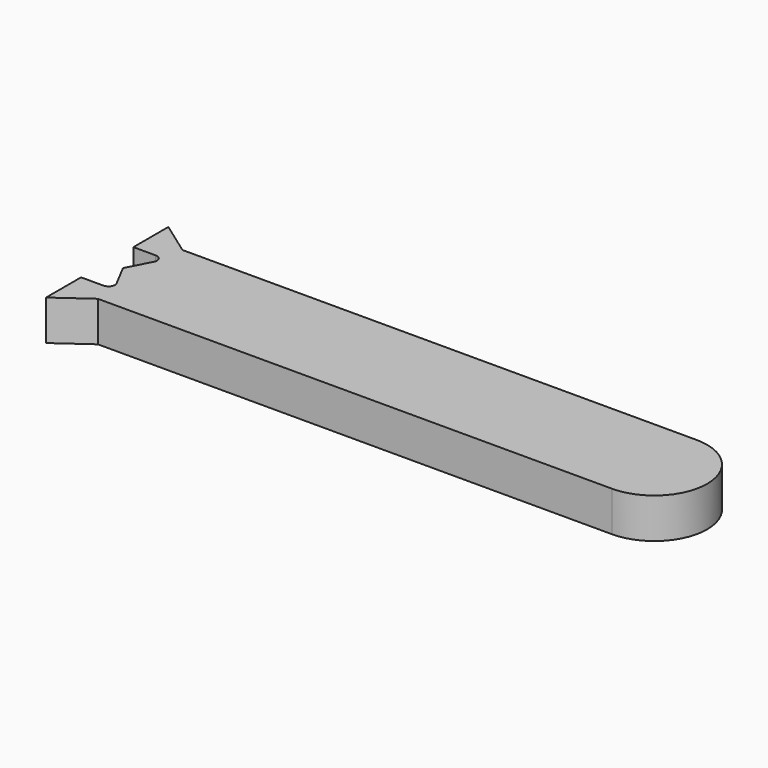
from build123d import *

# Parameters (mm, degrees)
F1_DEPTH = 6.35


with BuildPart() as f1:
    # F0 (on Top) → F1 (new body)
    with BuildSketch(Plane.XY):
        with BuildLine():
            ThreePointArc((40.718749, -8.371718), (49.090467, 0), (40.718749, 8.371718))
            Line((40.718749, 8.371718), (-40.718749, 8.371718))
            Line((-40.718749, 8.371718), (-45.935184, 12.10599))
            Line((-45.935184, 12.10599), (-45.935184, 8.371718))
            Line((-45.935184, 8.371718), (-45.935184, 5.181011))
            Line((-45.935184, 5.181011), (-42.398812, 5.181011))
            ThreePointArc((-42.398812, 5.181011), (-41.529422, 4.690765), (-41.499038, 3.69314))
            Line((-41.499038, 3.69314), (-43.435842, 0))
            Line((-43.435842, 0), (-41.499038, -3.69314))
            ThreePointArc((-41.499038, -3.69314), (-41.529422, -4.690765), (-42.398812, -5.181011))
            Line((-42.398812, -5.181011), (-45.935184, -5.181011))
            Line((-45.935184, -5.181011), (-45.935184, -8.371718))
            Line((-45.935184, -8.371718), (-45.935184, -12.10599))
            Line((-45.935184, -12.10599), (-40.718749, -8.371718))
            Line((-40.718749, -8.371718), (40.718749, -8.371718))
        make_face()
    extrude(amount=F1_DEPTH)


solid = f1.part
